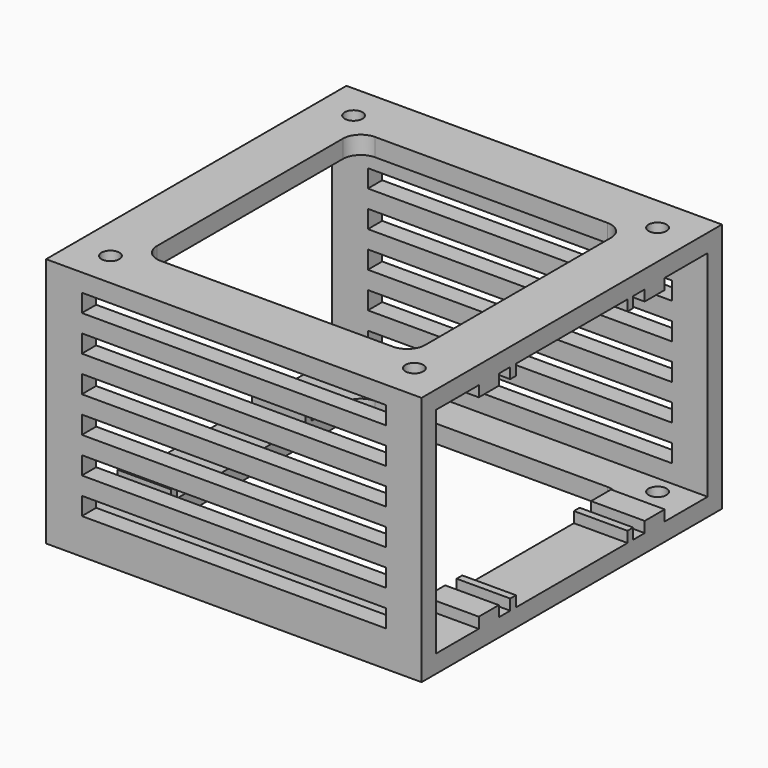
from build123d import *

# Parameters (mm, degrees)
F0_W          = 105
F0_H          = 105
F0_R          = 2.5
F1_DEPTH      = 5
F2_W          = 15
F2_H          = 2
F2_H_2        = 7
F3_DEPTH      = 3
F5_DEPTH      = 52.5
F5_DEPTH_BACK = 52.5
F7_DEPTH      = 5
F8_W          = 15
F8_H          = 2
F8_H_2        = 7
F9_DEPTH      = 3
F10_W         = 85
F10_H         = 5
F11_DEPTH     = 105.001
F12_R         = 2.5
F13_DEPTH     = 25


with BuildPart() as f1:
    # F0 (on Top) → F1 (new body)
    with BuildSketch(Plane.XY):
        Rectangle(F0_W, F0_H)
        with Locations((-42.5, -42.5)):
            Circle(F0_R, mode=Mode.SUBTRACT)
        with Locations((42.5, -42.5)):
            Circle(F0_R, mode=Mode.SUBTRACT)
        with Locations((-42.5, 42.5)):
            Circle(F0_R, mode=Mode.SUBTRACT)
        with BuildLine():
            ThreePointArc((-37.5, 32.5), (-36.035534, 36.035534), (-32.5, 37.5))
            Line((-32.5, 37.5), (32.5, 37.5))
            ThreePointArc((32.5, 37.5), (36.035534, 36.035534), (37.5, 32.5))
            Line((37.5, 32.5), (37.5, -32.5))
            ThreePointArc((37.5, -32.5), (36.035534, -36.035534), (32.5, -37.5))
            Line((32.5, -37.5), (-32.5, -37.5))
            ThreePointArc((-32.5, -37.5), (-36.035534, -36.035534), (-37.5, -32.5))
            Line((-37.5, -32.5), (-37.5, 32.5))
        make_face(mode=Mode.SUBTRACT)
        with Locations((42.5, 42.5)):
            Circle(F0_R, mode=Mode.SUBTRACT)
    extrude(amount=F1_DEPTH)

    # F2 (on face) → F3 (join)
    with BuildSketch(Plane.XY.offset(5)):
        with Locations((-45, 26.5)):
            Rectangle(F2_W, F2_H)
        with Locations((-45, 20.5)):
            Rectangle(F2_W, F2_H)
        with Locations((45, 20.5)):
            Rectangle(F2_W, F2_H)
        with Locations((45, 29)):
            Rectangle(F2_W, F2_H_2)
        with Locations((45, -20.5)):
            Rectangle(F2_W, F2_H)
        with Locations((45, -29)):
            Rectangle(F2_W, F2_H_2)
        with Locations((-45, -26.5)):
            Rectangle(F2_W, F2_H)
        with Locations((-45, -20.5)):
            Rectangle(F2_W, F2_H)
    extrude(amount=F3_DEPTH)

    # F4 (on Right) → F5 (join, two sides)
    with BuildSketch(Plane.YZ) as f5_sk:
        Polygon((47.5, 5), (52.5, 5), (52.5, 70), (-52.5, 70), (-52.5, 5), (-47.5, 5), (-47.5, 65), (47.5, 65), align=None)
    extrude(amount=F5_DEPTH)
    extrude(f5_sk.sketch, amount=-F5_DEPTH_BACK)

    # F6 (on face) → F7 (cut, through all)
    with BuildSketch(Plane(origin=(0, 0, 65), x_dir=(1, 0, 0), z_dir=(0, 0, -1))):
        with BuildLine():
            ThreePointArc((-37.5, -32.5), (-36.035534, -36.035534), (-32.5, -37.5))
            Line((-32.5, -37.5), (32.5, -37.5))
            ThreePointArc((32.5, -37.5), (36.035534, -36.035534), (37.5, -32.5))
            Line((37.5, -32.5), (37.5, 32.5))
            ThreePointArc((37.5, 32.5), (36.035534, 36.035534), (32.5, 37.5))
            Line((32.5, 37.5), (-32.5, 37.5))
            ThreePointArc((-32.5, 37.5), (-36.035534, 36.035534), (-37.5, 32.5))
            Line((-37.5, 32.5), (-37.5, -32.5))
        make_face()
    extrude(amount=-F7_DEPTH, mode=Mode.SUBTRACT)

    # F8 (on face) → F9 (join)
    with BuildSketch(Plane(origin=(0, 0, 65), x_dir=(1, 0, 0), z_dir=(0, 0, -1))):
        with Locations((-45, -26.5)):
            Rectangle(F8_W, F8_H)
        with Locations((-45, -20.5)):
            Rectangle(F8_W, F8_H)
        with Locations((-45, 20.5)):
            Rectangle(F8_W, F8_H)
        with Locations((-45, 26.5)):
            Rectangle(F8_W, F8_H)
        with Locations((45, 29)):
            Rectangle(F8_W, F8_H_2)
        with Locations((45, 20.5)):
            Rectangle(F8_W, F8_H)
        with Locations((45, -29)):
            Rectangle(F8_W, F8_H_2)
        with Locations((45, -20.5)):
            Rectangle(F8_W, F8_H)
    extrude(amount=F9_DEPTH)

    # F10 (on face) → F11 (cut, through all)
    with BuildSketch(Plane(origin=(0, 52.5, 0), x_dir=(-1, 0, 0), z_dir=(0, 1, 0))):
        with Locations((0, 12.5)):
            Rectangle(F10_W, F10_H)
        with Locations((0, 22.5)):
            Rectangle(F10_W, F10_H)
        with Locations((0, 32.5)):
            Rectangle(F10_W, F10_H)
        with Locations((0, 42.5)):
            Rectangle(F10_W, F10_H)
        with Locations((0, 52.5)):
            Rectangle(F10_W, F10_H)
        with Locations((0, 62.5)):
            Rectangle(F10_W, F10_H)
    extrude(amount=-F11_DEPTH, mode=Mode.SUBTRACT)

    # F12 (on face) → F13 (cut)
    with BuildSketch(Plane.XY.offset(70)):
        with Locations((42.5, -42.5)):
            Circle(F12_R)
        with Locations((-42.5, -42.5)):
            Circle(F12_R)
        with Locations((-42.5, 42.5)):
            Circle(F12_R)
        with Locations((42.5, 42.5)):
            Circle(F12_R)
    extrude(amount=-F13_DEPTH, mode=Mode.SUBTRACT)


solid = f1.part
